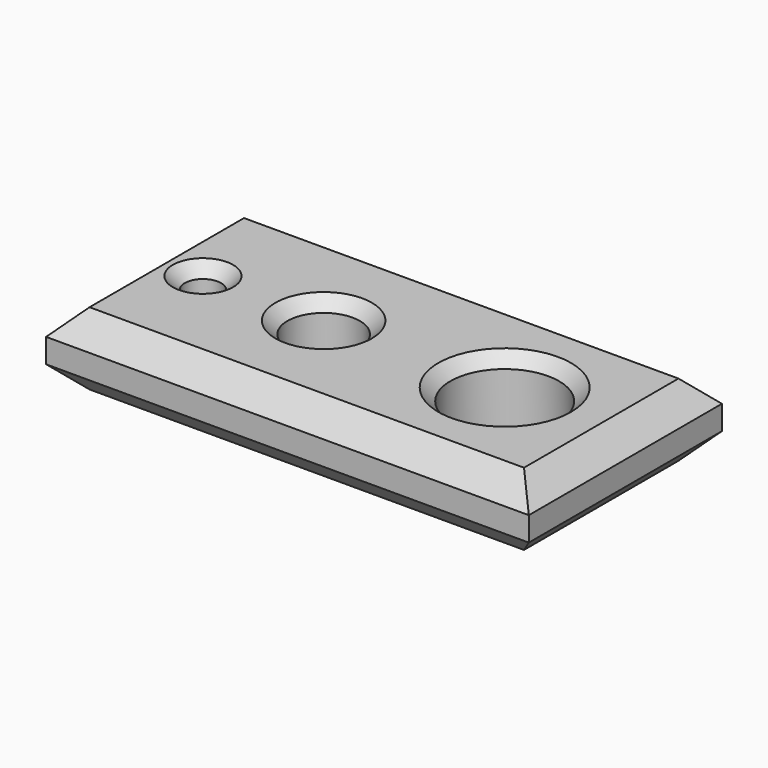
from build123d import *

# Parameters (mm, degrees)
F0_W      = 200
F0_H      = 100
F0_R      = 7.5
F0_R_2    = 15
F0_R_3    = 22.5
F1_DEPTH  = 30
F2_SIZE2  = 5
F2_SIZE   = 5
F3_SIZE2  = 5
F3_SIZE   = 5
F4_SIZE2  = 5
F4_SIZE   = 5
F5_SIZE2  = 10
F5_SIZE   = 10
F6_SIZE2  = 10
F6_SIZE   = 10
F7_SIZE2  = 10
F7_SIZE   = 10
F8_SIZE2  = 10
F8_SIZE   = 10
F9_SIZE2  = 10
F9_SIZE   = 10
F10_SIZE2 = 10
F10_SIZE  = 10
F11_SIZE2 = 10
F11_SIZE  = 10
F12_SIZE2 = 10
F12_SIZE  = 10


with BuildPart() as f1:
    # F0 (on Top) → F1 (new body)
    with BuildSketch(Plane.XY):
        with Locations((-29.422262, 9.461938)):
            Rectangle(F0_W, F0_H)
        with Locations((-104.422262, 9.461938)):
            Circle(F0_R, mode=Mode.SUBTRACT)
        with Locations((-54.422262, 9.461938)):
            Circle(F0_R_2, mode=Mode.SUBTRACT)
        with Locations((20.577738, 9.461938)):
            Circle(F0_R_3, mode=Mode.SUBTRACT)
    extrude(amount=-F1_DEPTH)

    # F2
    f2_edges = [f1.edges().sort_by_distance(p)[0] for p in [
        (-111.922262, 9.461938, 0),
    ]]
    chamfer(f2_edges, length=F2_SIZE, length2=F2_SIZE2)

    # F3
    f3_edges = [f1.edges().sort_by_distance(p)[0] for p in [
        (-69.422262, 9.461938, 0),
    ]]
    chamfer(f3_edges, length=F3_SIZE, length2=F3_SIZE2)

    # F4
    f4_edges = [f1.edges().sort_by_distance(p)[0] for p in [
        (-1.922262, 9.461938, 0),
    ]]
    chamfer(f4_edges, length=F4_SIZE, length2=F4_SIZE2)

    # F5
    f5_edges = [f1.edges().sort_by_distance(p)[0] for p in [
        (70.577738, 9.461938, 0),
    ]]
    chamfer(f5_edges, length=F5_SIZE, length2=F5_SIZE2)

    # F6
    f6_edges = [f1.edges().sort_by_distance(p)[0] for p in [
        (70.577738, 9.461938, -30),
    ]]
    chamfer(f6_edges, length=F6_SIZE, length2=F6_SIZE2)

    # F7
    f7_edges = [f1.edges().sort_by_distance(p)[0] for p in [
        (-129.422262, 9.461938, 0),
    ]]
    chamfer(f7_edges, length=F7_SIZE, length2=F7_SIZE2)

    # F8
    f8_edges = [f1.edges().sort_by_distance(p)[0] for p in [
        (-129.422262, 9.461938, -30),
    ]]
    chamfer(f8_edges, length=F8_SIZE, length2=F8_SIZE2)

    # F9
    f9_edges = [f1.edges().sort_by_distance(p)[0] for p in [
        (-29.422262, -40.538062, 0),
    ]]
    chamfer(f9_edges, length=F9_SIZE, length2=F9_SIZE2)

    # F10
    f10_edges = [f1.edges().sort_by_distance(p)[0] for p in [
        (-29.422262, 59.461938, -30),
    ]]
    chamfer(f10_edges, length=F10_SIZE, length2=F10_SIZE2)

    # F11
    f11_edges = [f1.edges().sort_by_distance(p)[0] for p in [
        (-29.422262, -40.538062, -30),
    ]]
    chamfer(f11_edges, length=F11_SIZE, length2=F11_SIZE2)

    # F12
    f12_edges = [f1.edges().sort_by_distance(p)[0] for p in [
        (-29.422262, 59.461938, 0),
    ]]
    chamfer(f12_edges, length=F12_SIZE, length2=F12_SIZE2)


solid = f1.part
